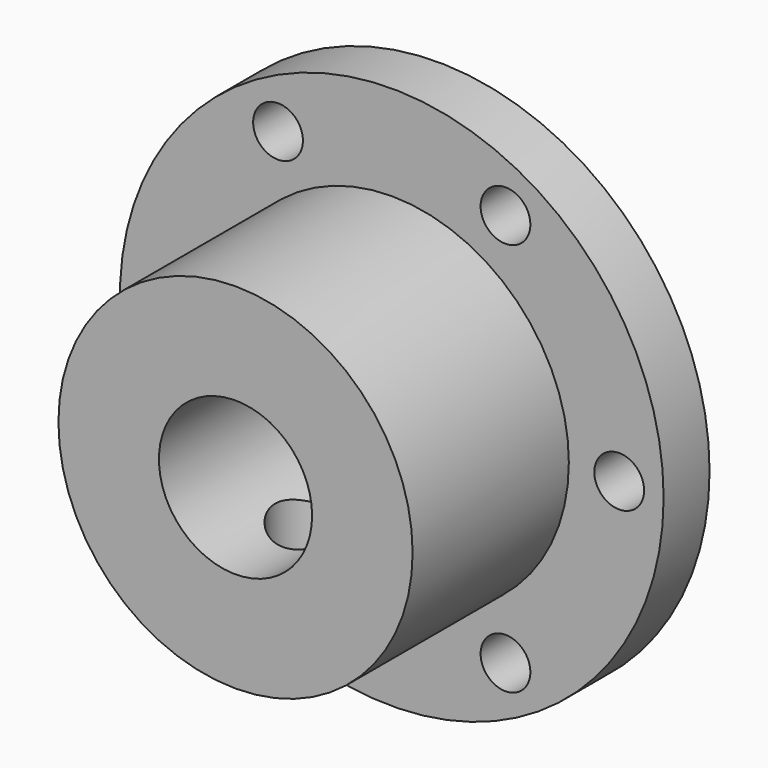
from build123d import *

# Parameters (mm, degrees)
F1_R     = 18.5
F4_DEPTH = 26.4
F2_R     = 28.4
F5_DEPTH = 6
F0_R     = 8
F6_DEPTH = 26.4
F3_R     = 2.6
F7_DEPTH = 6
F8_R     = 4
F9_DEPTH = 28


with BuildPart() as f4:
    # F1 (on Front) → F4 (new body)
    with BuildSketch(Plane.XZ):
        Circle(F1_R)
    extrude(amount=F4_DEPTH)

    # F2 (on Front) → F5 (join)
    with BuildSketch(Plane.XZ):
        Circle(F2_R)
    extrude(amount=F5_DEPTH)

    # F0 (on Front) → F6 (cut)
    with BuildSketch(Plane.XZ):
        Circle(F0_R)
    extrude(amount=F6_DEPTH, mode=Mode.SUBTRACT)

    # F3 (on Front) → F7 (cut)
    with BuildSketch(Plane.XZ):
        with Locations((-23.760727, 0)):
            Circle(F3_R)
        with Locations((-11.880363, -20.577393)):
            Circle(F3_R)
        with Locations((11.880363, -20.577393)):
            Circle(F3_R)
        with Locations((23.760727, 0)):
            Circle(F3_R)
        with Locations((11.880363, 20.577393)):
            Circle(F3_R)
        with Locations((-11.880363, 20.577393)):
            Circle(F3_R)
    extrude(amount=F7_DEPTH, mode=Mode.SUBTRACT)

    # F8 (on Top) → F9 (cut)
    with BuildSketch(Plane.XY):
        with Locations((0, -16.212996)):
            Circle(F8_R)
    extrude(amount=-F9_DEPTH, mode=Mode.SUBTRACT)


solid = f4.part
